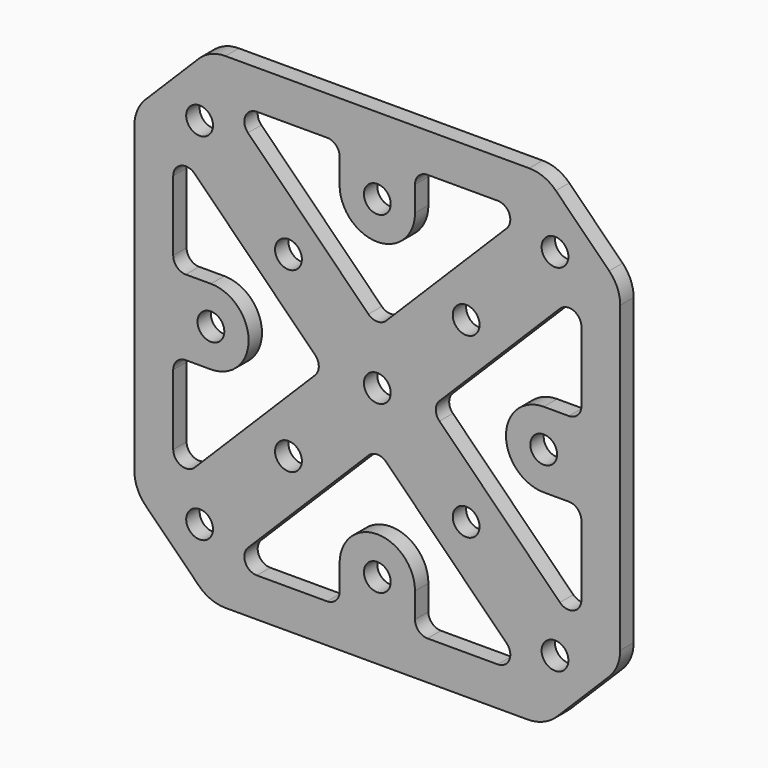
from build123d import *

# Parameters (mm, degrees)
F1_R     = 1.6
F2_DEPTH = 2


with BuildPart() as f2:
    # F1 (on Front) → F2 (new body)
    with BuildSketch(Plane.XZ):
        with BuildLine():
            Line((47.136039, 58), (10.863961, 58))
            ThreePointArc((10.863961, 58), (9.141886, 57.657458), (7.681981, 56.681981))
            Line((7.681981, 56.681981), (1.318019, 50.318019))
            ThreePointArc((1.318019, 50.318019), (0.342542, 48.858114), (0, 47.136039))
            Line((0, 47.136039), (0, 10.863961))
            ThreePointArc((0, 10.863961), (0.342542, 9.141886), (1.318019, 7.681981))
            Line((1.318019, 7.681981), (7.681981, 1.318019))
            ThreePointArc((7.681981, 1.318019), (9.141886, 0.342542), (10.863961, 0))
            Line((10.863961, 0), (46.928932, 0))
            ThreePointArc((46.928932, 0), (48.842349, 0.380602), (50.464466, 1.464466))
            Line((50.464466, 1.464466), (56.681981, 7.681981))
            ThreePointArc((56.681981, 7.681981), (57.657458, 9.141886), (58, 10.863961))
            Line((58, 10.863961), (58, 47.136039))
            ThreePointArc((58, 47.136039), (57.657458, 48.858114), (56.681981, 50.318019))
            Line((56.681981, 50.318019), (50.318019, 56.681981))
            ThreePointArc((50.318019, 56.681981), (48.858114, 57.657458), (47.136039, 58))
        make_face()
        with Locations((7.786797, 7.786797)):
            Circle(F1_R, mode=Mode.SUBTRACT)
        with BuildLine():
            ThreePointArc((7.197009, 13.56066), (5.562323, 13.235501), (4.636348, 14.62132))
            Line((4.636348, 14.62132), (4.636348, 23))
            ThreePointArc((4.636348, 23), (5.075688, 24.06066), (6.136348, 24.5))
            Line((6.136348, 24.5), (9.136348, 24.5))
            ThreePointArc((9.136348, 24.5), (13.636348, 29), (9.136348, 33.5))
            Line((9.136348, 33.5), (6.136348, 33.5))
            ThreePointArc((6.136348, 33.5), (5.075688, 33.93934), (4.636348, 35))
            Line((4.636348, 35), (4.636348, 43.37868))
            ThreePointArc((4.636348, 43.37868), (5.562323, 44.764499), (7.197009, 44.43934))
            Line((7.197009, 44.43934), (21.575688, 30.06066))
            ThreePointArc((21.575688, 30.06066), (22.015028, 29), (21.575688, 27.93934))
            Line((21.575688, 27.93934), (7.197009, 13.56066))
        make_face(mode=Mode.SUBTRACT)
        with Locations((18.393398, 18.393398)):
            Circle(F1_R, mode=Mode.SUBTRACT)
        with Locations((29, 9.136348)):
            Circle(F1_R, mode=Mode.SUBTRACT)
        with BuildLine():
            Line((33.5, 6.136348), (33.5, 9.136348))
            ThreePointArc((33.5, 9.136348), (29, 13.636348), (24.5, 9.136348))
            Line((24.5, 9.136348), (24.5, 6.136348))
            ThreePointArc((24.5, 6.136348), (24.06066, 5.075688), (23, 4.636348))
            Line((23, 4.636348), (14.62132, 4.636348))
            ThreePointArc((14.62132, 4.636348), (13.235501, 5.562323), (13.56066, 7.197009))
            Line((13.56066, 7.197009), (27.93934, 21.575688))
            ThreePointArc((27.93934, 21.575688), (29, 22.015028), (30.06066, 21.575688))
            Line((30.06066, 21.575688), (44.43934, 7.197009))
            ThreePointArc((44.43934, 7.197009), (44.764499, 5.562323), (43.37868, 4.636348))
            Line((43.37868, 4.636348), (35, 4.636348))
            ThreePointArc((35, 4.636348), (33.93934, 5.075688), (33.5, 6.136348))
        make_face(mode=Mode.SUBTRACT)
        with Locations((50.213203, 7.786797)):
            Circle(F1_R, mode=Mode.SUBTRACT)
        with Locations((39.606602, 18.393398)):
            Circle(F1_R, mode=Mode.SUBTRACT)
        with BuildLine():
            ThreePointArc((50.802991, 44.43934), (52.437677, 44.764499), (53.363652, 43.37868))
            Line((53.363652, 43.37868), (53.363652, 35))
            ThreePointArc((53.363652, 35), (52.924312, 33.93934), (51.863652, 33.5))
            Line((51.863652, 33.5), (48.863652, 33.5))
            ThreePointArc((48.863652, 33.5), (44.363652, 29), (48.863652, 24.5))
            Line((48.863652, 24.5), (51.863652, 24.5))
            ThreePointArc((51.863652, 24.5), (52.924312, 24.06066), (53.363652, 23))
            Line((53.363652, 23), (53.363652, 14.62132))
            ThreePointArc((53.363652, 14.62132), (52.437677, 13.235501), (50.802991, 13.56066))
            Line((50.802991, 13.56066), (36.424312, 27.93934))
            ThreePointArc((36.424312, 27.93934), (35.984972, 29), (36.424312, 30.06066))
            Line((36.424312, 30.06066), (50.802991, 44.43934))
        make_face(mode=Mode.SUBTRACT)
        with Locations((9.136348, 29)):
            Circle(F1_R, mode=Mode.SUBTRACT)
        with Locations((18.393398, 39.606602)):
            Circle(F1_R, mode=Mode.SUBTRACT)
        with Locations((7.786797, 50.213203)):
            Circle(F1_R, mode=Mode.SUBTRACT)
        with Locations((29, 29)):
            Circle(F1_R, mode=Mode.SUBTRACT)
        with Locations((39.606602, 39.606602)):
            Circle(F1_R, mode=Mode.SUBTRACT)
        with Locations((48.863652, 29)):
            Circle(F1_R, mode=Mode.SUBTRACT)
        with BuildLine():
            ThreePointArc((13.56066, 50.802991), (13.235501, 52.437677), (14.62132, 53.363652))
            Line((14.62132, 53.363652), (23, 53.363652))
            ThreePointArc((23, 53.363652), (24.06066, 52.924312), (24.5, 51.863652))
            Line((24.5, 51.863652), (24.5, 48.863652))
            ThreePointArc((24.5, 48.863652), (29, 44.363652), (33.5, 48.863652))
            Line((33.5, 48.863652), (33.5, 51.863652))
            ThreePointArc((33.5, 51.863652), (33.93934, 52.924312), (35, 53.363652))
            Line((35, 53.363652), (43.37868, 53.363652))
            ThreePointArc((43.37868, 53.363652), (44.764499, 52.437677), (44.43934, 50.802991))
            Line((44.43934, 50.802991), (30.06066, 36.424312))
            ThreePointArc((30.06066, 36.424312), (29, 35.984972), (27.93934, 36.424312))
            Line((27.93934, 36.424312), (13.56066, 50.802991))
        make_face(mode=Mode.SUBTRACT)
        with Locations((29, 48.863652)):
            Circle(F1_R, mode=Mode.SUBTRACT)
        with Locations((50.213203, 50.213203)):
            Circle(F1_R, mode=Mode.SUBTRACT)
    extrude(amount=F2_DEPTH)


solid = f2.part
